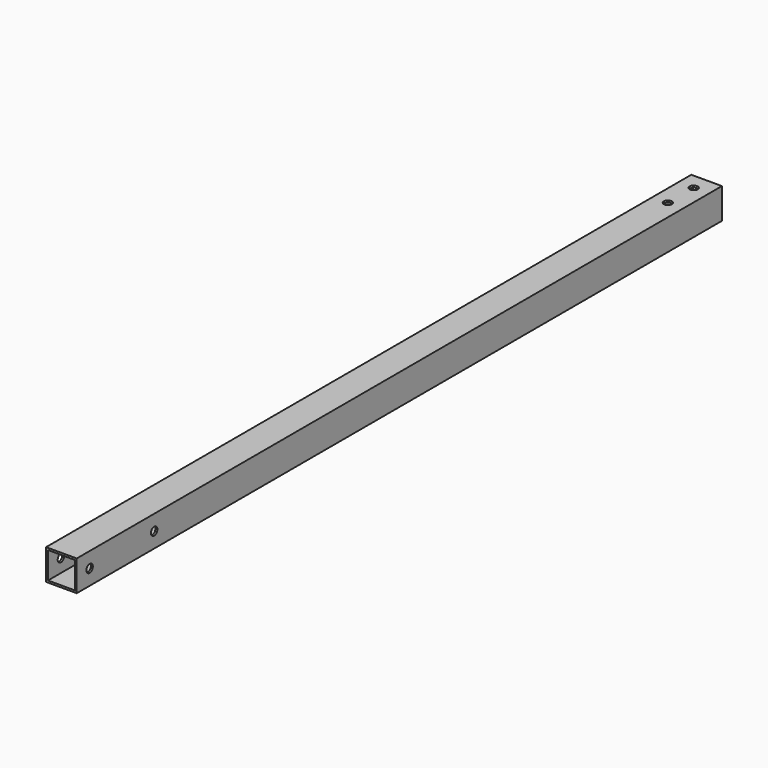
from build123d import *

# Parameters (mm, degrees)
F1_W     = 19
F1_H     = 19
F1_W_2   = 16.6
F1_H_2   = 16.6
F2_DEPTH = 500
F4_D     = 5
F6_D     = 5


with BuildPart() as f2:
    # F1 (on Front) → F2 (new body)
    with BuildSketch(Plane.XZ):
        Rectangle(F1_W, F1_H)
        Rectangle(F1_W_2, F1_H_2, mode=Mode.SUBTRACT)
    extrude(amount=-F2_DEPTH)

    # F4 (through all)
    with Locations(Plane.XY.offset(9.5)):
        with Locations((0, 490), (0, 470)):
            Hole(F4_D / 2)

    # F6 (through all)
    with Locations(Plane.YZ.offset(9.5)):
        with Locations((10, 0), (60, 0)):
            Hole(F6_D / 2)


solid = f2.part
